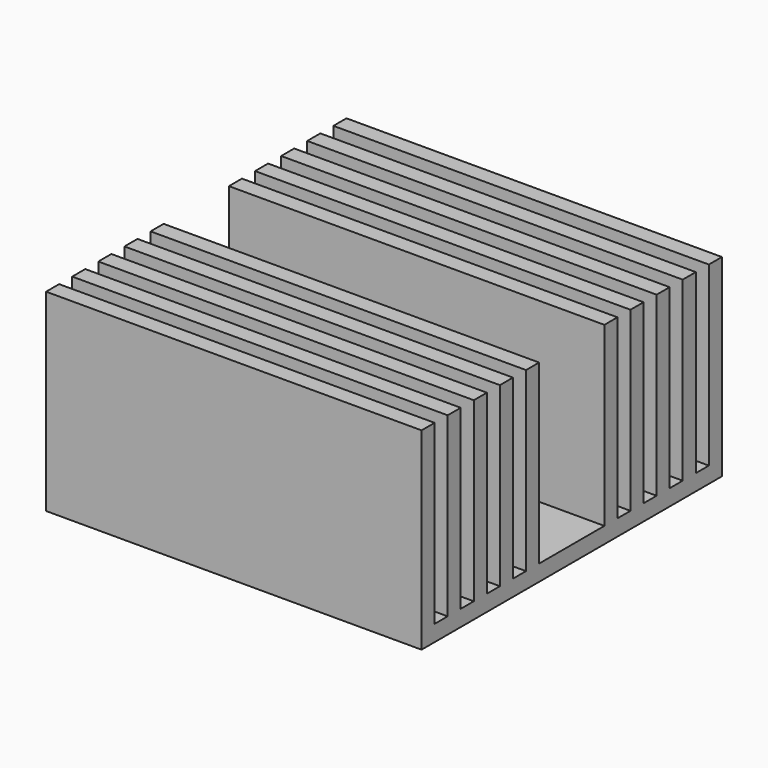
from build123d import *

# Parameters (mm, degrees)
BOX_W                = 35
BOX_H                = 35
BOX_DEPTH            = 18
BOX001_W             = 1.5217
BOX001_H             = 35
BOX001_DEPTH         = 16.5
BOX002_W             = 1.5217
BOX002_H             = 35
BOX002_DEPTH         = 16.5
BOX003_W             = 1.5217
BOX003_H             = 35
BOX003_DEPTH         = 16.5
BOX004_W             = 1.5217
BOX004_H             = 35
BOX004_DEPTH         = 16.5
BOX005_W             = 7.6087
BOX005_H             = 35
BOX005_DEPTH         = 16.5
BOX006_W             = 1.5217
BOX006_H             = 35
BOX006_DEPTH         = 16.5
BOX007_W             = 1.5217
BOX007_H             = 35
BOX007_DEPTH         = 16.5
BOX008_W             = 1.5217
BOX008_H             = 35
BOX008_DEPTH         = 16.5
BOX009_W             = 1.5217
BOX009_H             = 35
BOX009_DEPTH         = 16.5
BODY_PLACEMENT_ANGLE = 90


with BuildPart() as part:
    # Box → Box (join)
    with BuildSketch(Plane(origin=(-17.5, -17.5, 0), x_dir=(1, 0, 0), z_dir=(0, 0, 1))):
        with Locations((17.5, 17.5)):
            Rectangle(BOX_W, BOX_H)
    extrude(amount=BOX_DEPTH)

    # Box001 → Box001 (cut)
    with BuildSketch(Plane(origin=(-15.978, -17.5, 1.5), x_dir=(1, 0, 0), z_dir=(0, 0, 1))):
        with Locations((0.76085, 17.5)):
            Rectangle(BOX001_W, BOX001_H)
    extrude(amount=BOX001_DEPTH, mode=Mode.SUBTRACT)

    # Box002 → Box002 (cut)
    with BuildSketch(Plane(origin=(-12.9347, -17.5, 1.5), x_dir=(1, 0, 0), z_dir=(0, 0, 1))):
        with Locations((0.76085, 17.5)):
            Rectangle(BOX002_W, BOX002_H)
    extrude(amount=BOX002_DEPTH, mode=Mode.SUBTRACT)

    # Box003 → Box003 (cut)
    with BuildSketch(Plane(origin=(-9.891304, -17.5, 1.5), x_dir=(1, 0, 0), z_dir=(0, 0, 1))):
        with Locations((0.76085, 17.5)):
            Rectangle(BOX003_W, BOX003_H)
    extrude(amount=BOX003_DEPTH, mode=Mode.SUBTRACT)

    # Box004 → Box004 (cut)
    with BuildSketch(Plane(origin=(-6.84782, -17.5, 1.5), x_dir=(1, 0, 0), z_dir=(0, 0, 1))):
        with Locations((0.76085, 17.5)):
            Rectangle(BOX004_W, BOX004_H)
    extrude(amount=BOX004_DEPTH, mode=Mode.SUBTRACT)

    # Box005 → Box005 (cut)
    with BuildSketch(Plane(origin=(-3.80434, -17.5, 1.5), x_dir=(1, 0, 0), z_dir=(0, 0, 1))):
        with Locations((3.80435, 17.5)):
            Rectangle(BOX005_W, BOX005_H)
    extrude(amount=BOX005_DEPTH, mode=Mode.SUBTRACT)

    # Box006 → Box006 (cut)
    with BuildSketch(Plane(origin=(5.326088, -17.5, 1.5), x_dir=(1, 0, 0), z_dir=(0, 0, 1))):
        with Locations((0.76085, 17.5)):
            Rectangle(BOX006_W, BOX006_H)
    extrude(amount=BOX006_DEPTH, mode=Mode.SUBTRACT)

    # Box007 → Box007 (cut)
    with BuildSketch(Plane(origin=(8.369566, -17.5, 1.5), x_dir=(1, 0, 0), z_dir=(0, 0, 1))):
        with Locations((0.76085, 17.5)):
            Rectangle(BOX007_W, BOX007_H)
    extrude(amount=BOX007_DEPTH, mode=Mode.SUBTRACT)

    # Box008 → Box008 (cut)
    with BuildSketch(Plane(origin=(11.407644, -17.5, 1.5), x_dir=(1, 0, 0), z_dir=(0, 0, 1))):
        with Locations((0.76085, 17.5)):
            Rectangle(BOX008_W, BOX008_H)
    extrude(amount=BOX008_DEPTH, mode=Mode.SUBTRACT)

    # Box009 → Box009 (cut)
    with BuildSketch(Plane(origin=(14.456521, -17.5, 1.5), x_dir=(1, 0, 0), z_dir=(0, 0, 1))):
        with Locations((0.76085, 17.5)):
            Rectangle(BOX009_W, BOX009_H)
    extrude(amount=BOX009_DEPTH, mode=Mode.SUBTRACT)


with BuildPart() as part_1:
    # Body placement: moved
    add(part.part.moved(Location((0, 0, 0.05))).rotate(Axis((0, 0, 0.05), (0, 0, 1)), BODY_PLACEMENT_ANGLE))


solid = part_1.part
